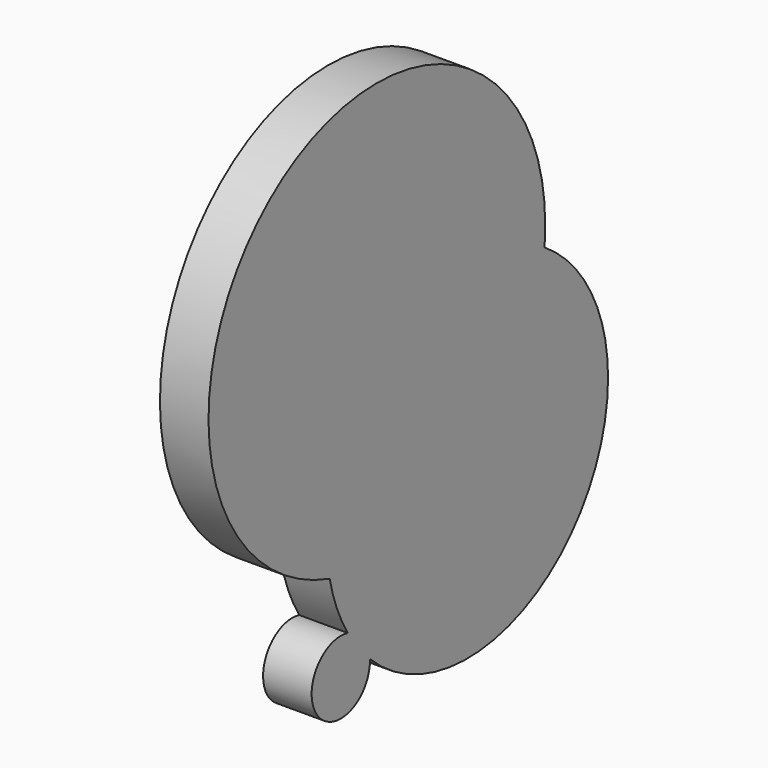
from build123d import *

# Parameters (mm, degrees)
F1_DEPTH = 25.4


with BuildPart() as f1:
    # F0 (on Right) → F1 (new body)
    with BuildSketch(Plane.YZ):
        with BuildLine():
            ThreePointArc((127.108151, 124.043941), (-48.945331, 212.087277), (-13.777117, 18.413184))
            ThreePointArc((-13.777117, 18.413184), (24.565551, 113.015268), (126.638795, 113.891245))
            ThreePointArc((126.638795, 113.891245), (126.990749, 118.962172), (127.108151, 124.043941))
        make_face()
        with BuildLine():
            ThreePointArc((126.638795, 113.891245), (24.565551, 113.015268), (-13.777117, 18.413184))
            ThreePointArc((-13.777117, 18.413184), (78.941882, 33.046089), (126.638795, 113.891245))
        make_face()
        with BuildLine():
            ThreePointArc((-1.902991, -11.405551), (4.76392, -20.801185), (12.553596, -29.28921))
            ThreePointArc((12.553596, -29.28921), (8.326017, -17.921697), (-1.902991, -11.405551))
        make_face()
        with BuildLine():
            ThreePointArc((-1.902991, -11.405551), (-21.511901, -41.646196), (12.563525, -29.904336))
            ThreePointArc((12.563525, -29.904336), (12.561042, -29.596733), (12.553596, -29.28921))
            ThreePointArc((12.553596, -29.28921), (4.76392, -20.801185), (-1.902991, -11.405551))
        make_face()
        with BuildLine():
            ThreePointArc((-1.902991, -11.405551), (8.326017, -17.921697), (12.553596, -29.28921))
            ThreePointArc((12.553596, -29.28921), (112.279491, -47.589008), (168.190831, 36.992662))
            ThreePointArc((168.190831, 36.992662), (157.138447, 80.696105), (126.638795, 113.891245))
            ThreePointArc((126.638795, 113.891245), (78.941882, 33.046089), (-13.777117, 18.413184))
            ThreePointArc((-13.777117, 18.413184), (-9.151432, 2.981612), (-1.902991, -11.405551))
        make_face()
    extrude(amount=F1_DEPTH)


solid = f1.part
